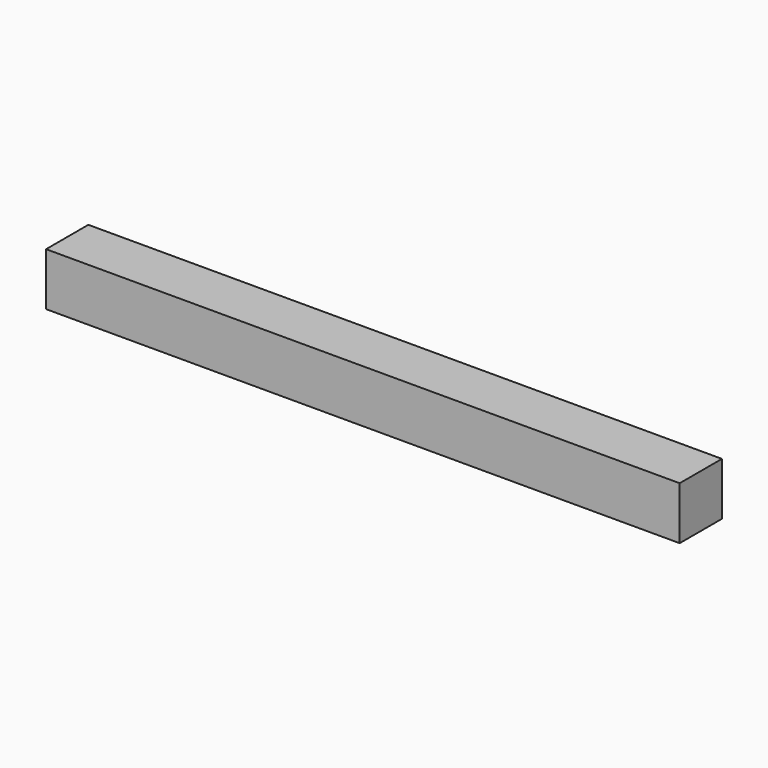
from build123d import *

# Parameters (mm, degrees)
BEAM_W     = 120
BEAM_H     = 10
BEAM_DEPTH = 10


with BuildPart() as part:
    # Beam → Beam (new body)
    with BuildSketch(Plane.XY):
        with Locations((60, 5)):
            Rectangle(BEAM_W, BEAM_H)
    extrude(amount=BEAM_DEPTH)


solid = part.part
